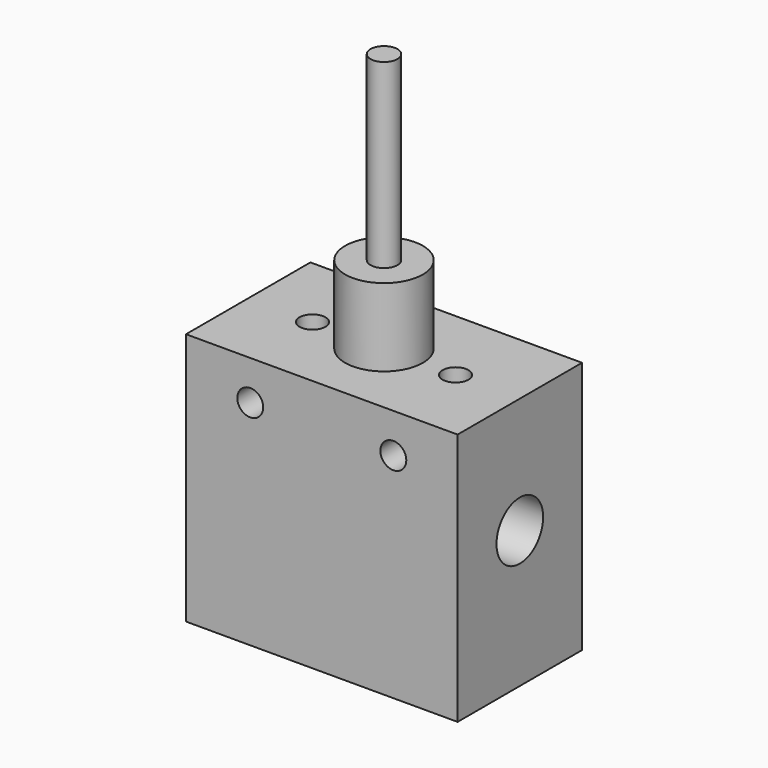
from build123d import *

# Parameters (mm, degrees)
F0_W      = 66.548
F0_H      = 61.976
F1_DEPTH  = 19.05
F2_R      = 9.525
F2_R_2    = 3.302
F3_DEPTH  = 19.05
F3_FACE_R = 3.302
F4_DEPTH  = 63.5
F2_R_3    = 3.175
F5_DEPTH  = 9.652
F6_R      = 3.175
F7_DEPTH  = 38.101
F8_R      = 7.14375
F9_DEPTH  = 19.05
F10_R     = 7.14375
F11_DEPTH = 19.05


with BuildPart() as f1:
    # F0 (on Front) → F1 (new body, symmetric)
    with BuildSketch(Plane.XZ):
        Rectangle(F0_W, F0_H)
    extrude(amount=F1_DEPTH, both=True)

    # F2 (on face) → F3 (join)
    with BuildSketch(Plane.XY.offset(30.988)):
        Circle(F2_R)
        Circle(F2_R_2, mode=Mode.SUBTRACT)
    extrude(amount=F3_DEPTH)

    # F3_face (on face) → F4 (join)
    with BuildSketch(Plane.XY.offset(30.988)):
        Circle(F3_FACE_R)
    extrude(amount=F4_DEPTH)

    # F2 (on face) → F5 (cut)
    with BuildSketch(Plane.XY.offset(30.988)):
        with Locations((-17.526, 0)):
            Circle(F2_R_3)
        with Locations((17.526, 0)):
            Circle(F2_R_3)
    extrude(amount=-F5_DEPTH, mode=Mode.SUBTRACT)

    # F6 (on face) → F7 (cut, through all)
    with BuildSketch(Plane.XZ.offset(19.05)):
        with Locations((-17.526, 21.336)):
            Circle(F6_R)
        with Locations((17.526, 21.336)):
            Circle(F6_R)
    extrude(amount=-F7_DEPTH, mode=Mode.SUBTRACT)

    # F8 (on face) → F9 (cut)
    with BuildSketch(Plane.YZ.offset(33.274)):
        with Locations((0, 2.54)):
            Circle(F8_R)
    extrude(amount=-F9_DEPTH, mode=Mode.SUBTRACT)

    # F10 (on face) → F11 (cut)
    with BuildSketch(Plane(origin=(-33.274, 0, 0), x_dir=(0, -1, 0), z_dir=(-1, 0, 0))):
        with Locations((0, -8.636)):
            Circle(F10_R)
    extrude(amount=-F11_DEPTH, mode=Mode.SUBTRACT)


solid = f1.part
